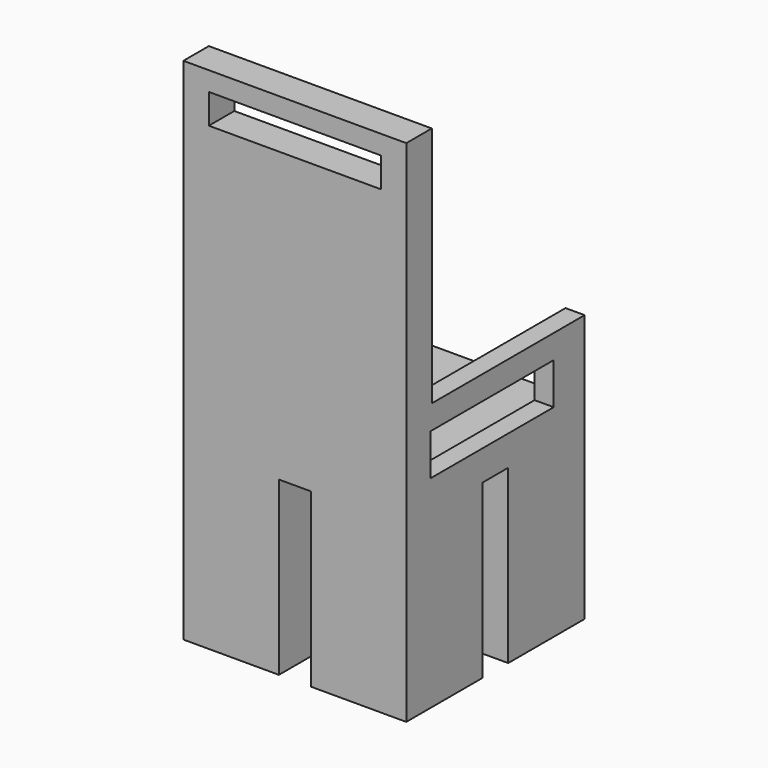
from build123d import *

# Parameters (mm, degrees)
F0_W      = 15
F0_H      = 15
F1_DEPTH  = 30
F3_W      = 35
F3_H      = 35
F4_DEPTH  = 3
F5_W      = 35
F5_H      = 5
F6_DEPTH  = 50
F7_W      = 27
F7_H      = 4.6730685326
F8_DEPTH  = 25
F9_W      = 3
F9_H      = 30
F10_DEPTH = 12
F12_W     = 24.1443798877
F12_H     = 6.5082572401
F11_W     = 23.8036615774
F11_H     = 4.3690986931
F13_DEPTH = 349


with BuildPart() as f1:
    # F0 (on Top) → F1 (new body)
    with BuildSketch(Plane.XY):
        with Locations((7.5, 7.5)):
            Rectangle(F0_W, F0_H)
    extrude(amount=F1_DEPTH)



with BuildPart() as f1b:
    # F0 (on Top) → F1, piece 2 (new body)
    with BuildSketch(Plane.XY):
        with Locations((7.5, 27.5)):
            Rectangle(F0_W, F0_H)
    extrude(amount=F1_DEPTH)


with BuildPart() as f1c:
    # F0 (on Top) → F1, piece 3 (new body)
    with BuildSketch(Plane.XY):
        with Locations((27.5, 27.5)):
            Rectangle(F0_W, F0_H)
    extrude(amount=F1_DEPTH)


with BuildPart() as f1d:
    # F0 (on Top) → F1, piece 4 (new body)
    with BuildSketch(Plane.XY):
        with Locations((27.5, 7.5)):
            Rectangle(F0_W, F0_H)
    extrude(amount=F1_DEPTH)


with BuildPart() as f1_1:
    add(f1.part)

    add(f1b.part)  # F4 merges F1b

    add(f1c.part)  # F4 merges F1c

    add(f1d.part)  # F4 merges F1d
    # F3 (on face) → F4 (join)
    with BuildSketch(Plane.XY.offset(30)):
        with Locations((17.5, 17.5)):
            Rectangle(F3_W, F3_H)
    extrude(amount=-F4_DEPTH)

    # F5 (on face) → F6 (join)
    with BuildSketch(Plane.XY.offset(30)):
        with Locations((17.5, 2.5)):
            Rectangle(F5_W, F5_H)
    extrude(amount=F6_DEPTH)

    # F7 (on face) → F8 (cut)
    with BuildSketch(Plane.XZ):
        with Locations((17.5, 74.6634657337)):
            Rectangle(F7_W, F7_H)
    extrude(amount=-F8_DEPTH, mode=Mode.SUBTRACT)

    # F9 (on face) → F10 (join)
    with BuildSketch(Plane.XY.offset(30)):
        with Locations((33.5, 20)):
            Rectangle(F9_W, F9_H)
        with Locations((1.5, 20)):
            Rectangle(F9_W, F9_H)
    extrude(amount=F10_DEPTH)

    # F12 (on face) + F11 (on face) → F13 (cut)
    with BuildSketch(Plane(origin=(0, 0, 0), x_dir=(0, -1, 0), z_dir=(-1, 0, 0))):
        with Locations((-16.8588969391, 34.9941607565)):
            Rectangle(F12_W, F12_H)
    with BuildSketch(Plane.YZ.offset(35)):
        with Locations((19.5460454561, 34.8994340748)):
            Rectangle(F11_W, F11_H)
    extrude(amount=-F13_DEPTH, dir=(-1, 0, 0), mode=Mode.SUBTRACT)


solid = f1_1.part
